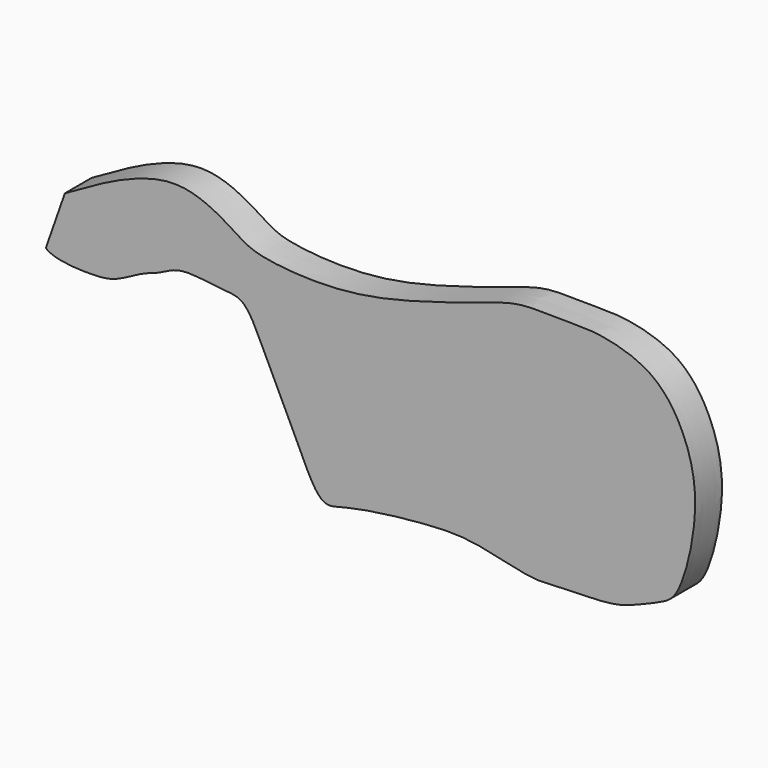
from build123d import *

# Parameters (mm, degrees)
F1_DEPTH = 5


with BuildPart() as f1:
    # F0 (on Front) → F1 (new body)
    with BuildSketch(Plane.XZ):
        with BuildLine():
            add(Edge.make_bspline(
                [(-51.3113252819, 11.5896230564), (-45.3330552558, 15.0370723041), (-35.0013693178, 20.9949769754), (-25.4209348685, 14.2277789456), (-22.2971093008, 12.7366903926), (-13.7592261673, 11.8459841634), (-2.7163466342, 12.88843916), (12.8614596718, 18.2116885542), (17.0552809607, 19.3416070573), (24.3870057533, 19.0600283971), (28.2470079669, 19.1661286099), (36.6887118326, 17.142460169), (41.6390989165, 9.5951661606), (43.4700815019, 0.4538895605), (40.5235588072, -11.5609597578), (37.5834701502, -13.1776719692), (33.5232583903, -14.8517615703), (30.2335121547, -16.028152546), (22.5257688892, -16.0448248287), (18.0704119461, -16.5935291016), (9.1758377729, -13.8159469262), (2.300352716, -14.3812385702), (0.1402392526, -14.5064527846), (-9.1751537356, -15.6275300454), (-12.9827935342, -17.3537762219), (-15.8546032913, -11.6933851465), (-18.5866813457, -5.5477766186), (-21.3455311454, -0.3652939314), (-24.2681915598, 6.6400210468), (-27.9083048437, 6.4422648761), (-34.1646106621, 7.6651467468), (-36.9730949501, 5.6846771318), (-39.6844643223, 5.0415483308), (-43.6107816052, 2.5588813531), (-46.8506103384, 2.1746727903), (-52.0506115632, 2.3421440055), (-54.1878972083, 3.3443398334), (-54.1049516471, 3.6026699322), (-54.0849082172, 3.6650942639)],
                knots=[0, 0, 0, 0, 0.0490323177, 0.0847379768, 0.106087808, 0.1380758676, 0.1781076374, 0.2239053673, 0.2486908232, 0.278480025, 0.3019047843, 0.3342811437, 0.367704558, 0.4035228526, 0.4425002893, 0.4626917256, 0.4858879109, 0.507969275, 0.5390676046, 0.5640955355, 0.599072085, 0.6284199448, 0.6461480149, 0.6809965016, 0.7027379189, 0.7291000797, 0.7594711475, 0.7882591482, 0.8180692689, 0.8388165693, 0.8672907525, 0.8878250341, 0.9068914866, 0.9310495383, 0.9522758067, 0.9788582783, 0.994891196, 1, 1, 1, 1], degree=3))
            add(Edge.make_bspline(
                [(-54.0849082172, 3.6650942639), (-53.1603805721, 6.3066038614), (-52.235852927, 8.9481134589), (-51.3113252819, 11.5896230564)],
                knots=[0, 0, 0, 0, 8.3958870218, 8.3958870218, 8.3958870218, 8.3958870218], degree=3))
        make_face()
    extrude(amount=F1_DEPTH)


solid = f1.part
